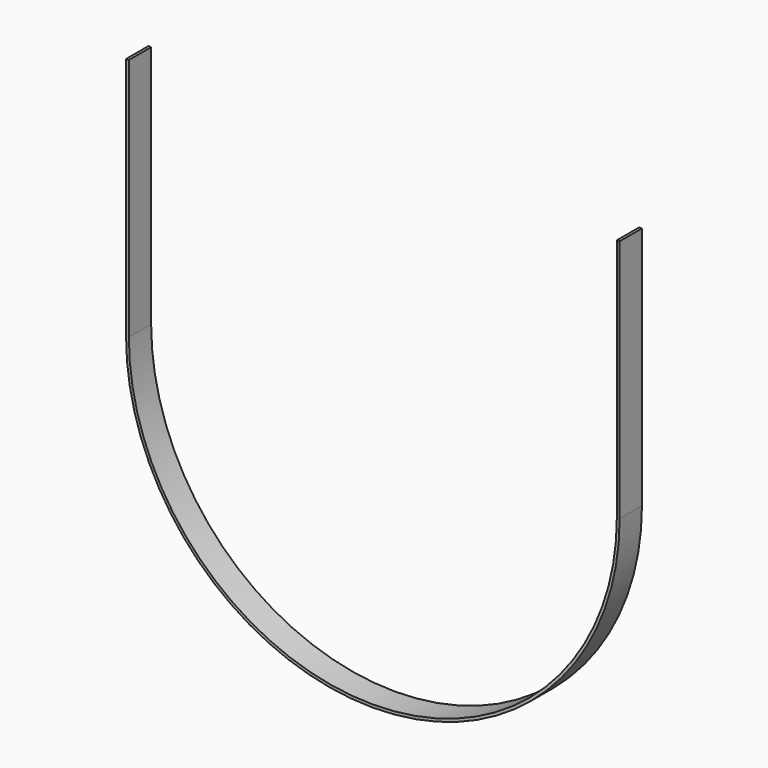
from build123d import *

# Parameters (mm, degrees)
F1_DEPTH = 20


with BuildPart() as f1:
    # F0 (on Front) → F1 (new body, symmetric)
    with BuildSketch(Plane.XZ):
        with BuildLine():
            ThreePointArc((350, 0), (0, -350), (-350, 0))
            Line((-350, 0), (-350, 350))
            Line((-350, 350), (-354, 350))
            Line((-354, 350), (-354, 0))
            ThreePointArc((-354, 0), (0, -354), (354, 0))
            Line((354, 0), (354, 350))
            Line((354, 350), (350, 350))
            Line((350, 350), (350, 0))
        make_face()
        with BuildLine():
            ThreePointArc((350, 0), (0, -350), (-350, 0))
            Line((-350, 0), (-350, 350))
            Line((-350, 350), (-354, 350))
            Line((-354, 350), (-354, 0))
            ThreePointArc((-354, 0), (0, -354), (354, 0))
            Line((354, 0), (354, 350))
            Line((354, 350), (350, 350))
            Line((350, 350), (350, 0))
        make_face()
    extrude(amount=F1_DEPTH, both=True)


solid = f1.part
